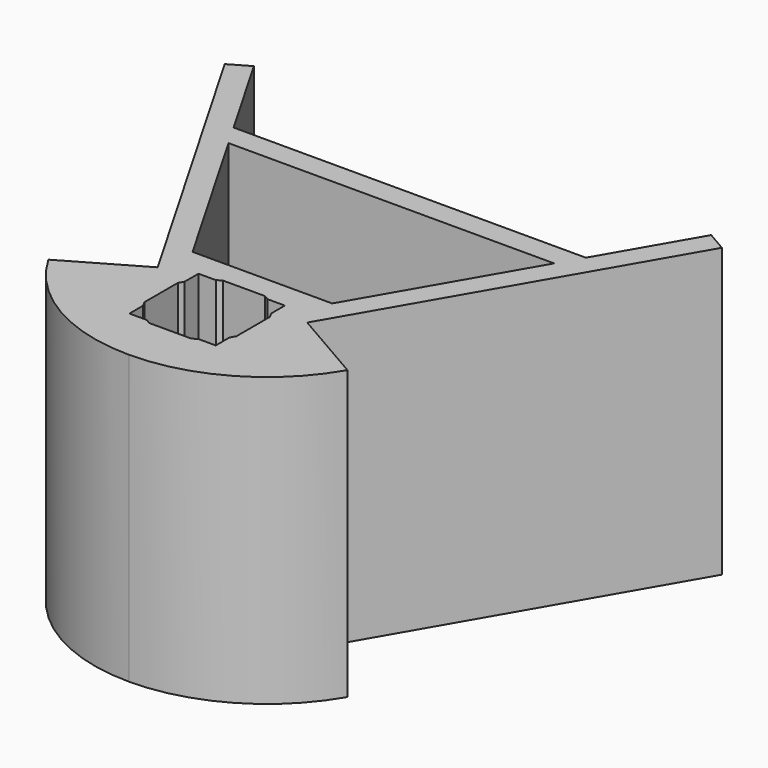
from build123d import *

# Parameters (mm, degrees)
F0_W     = 15
F0_H     = 15
F1_DEPTH = 50
F2_W     = 15
F2_H     = 15
F3_DEPTH = 2
F5_DEPTH = 48.001


with BuildPart() as f1:
    # F0 (on Top) → F1 (new body)
    with BuildSketch(Plane.XY):
        with BuildLine():
            Line((-39.726279, 59.807934), (-43.190381, 57.807934))
            Line((-43.190381, 57.807934), (-12.990381, 5.5))
            Line((-12.990381, 5.5), (-25.980762, -2))
            ThreePointArc((-25.980762, -2), (-15, -12.980762), (0, -17))
            ThreePointArc((0, -17), (15, -12.980762), (25.980762, -2))
            Line((25.980762, -2), (12.990381, 5.5))
            Line((12.990381, 5.5), (43.190381, 57.807934))
            Line((43.190381, 57.807934), (39.726279, 59.807934))
            Line((39.726279, 59.807934), (30.599564, 44))
            Line((30.599564, 44), (0, 44))
            Line((0, 44), (-30.599564, 44))
            Line((-30.599564, 44), (-39.726279, 59.807934))
        make_face()
        Rectangle(F0_W, F0_H, mode=Mode.SUBTRACT)
        Polygon((-28.290163, 40), (28.290163, 40), (12.124356, 12), (-12.124356, 12), align=None, mode=Mode.SUBTRACT)
    extrude(amount=F1_DEPTH)

    # F2 (on Top) → F3 (join)
    with BuildSketch(Plane.XY):
        Rectangle(F2_W, F2_H)
    extrude(amount=F3_DEPTH)

    # F4 (on face) → F5 (cut, through all)
    with BuildSketch(Plane.XY.offset(2)):
        Polygon((7.5, 4.5), (7.5, -4.5), (8, -3.633975), (8, 3.633975), align=None)
        Polygon((-4.5, 7.5), (4.5, 7.5), (3.633975, 8), (-3.633975, 8), align=None)
        Polygon((-7.5, -4.5), (-7.5, 4.5), (-8, 3.633975), (-8, -3.633975), align=None)
        Polygon((4.5, -7.5), (-4.5, -7.5), (-3.633975, -8), (3.633975, -8), align=None)
    extrude(amount=F5_DEPTH, mode=Mode.SUBTRACT)


solid = f1.part
